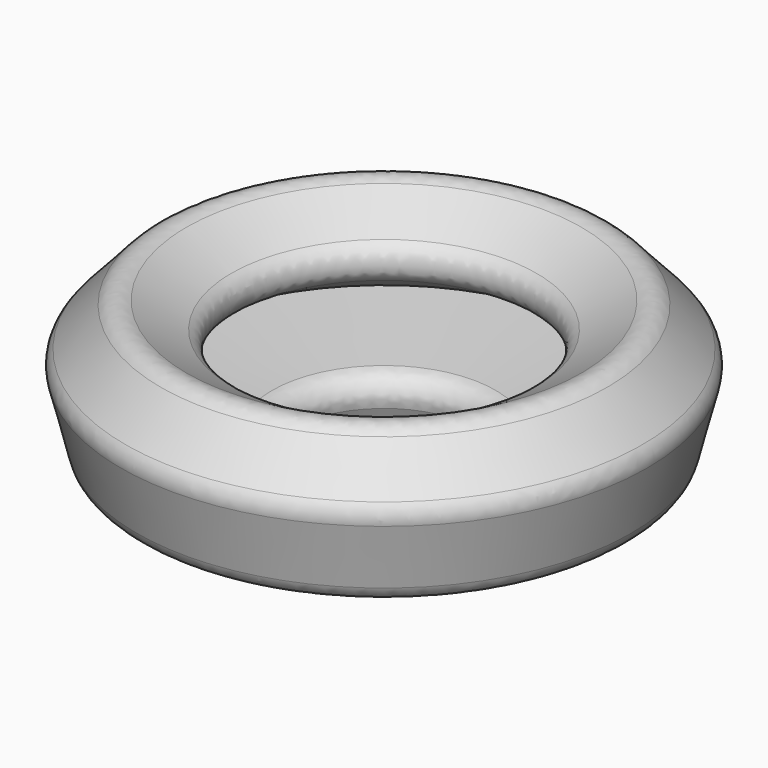
from build123d import *

# Parameters (mm, degrees)
F3_R = 5.08
F4_R = 5.08
F5_R = 5.08
F6_R = 5.08
F7_R = 5.08
F8_R = 5.08


with BuildPart() as f2:
    # F0 (on Front) → F2 (revolve)
    with BuildSketch(Plane.XZ):
        Polygon((-51.884659, -5.787526), (-65.084279, -20.408642), (-59.804432, -41.121893), (-26.703846, -51.275443), (-20.408642, -36.8574), (-54.930724, -33.202119), (-29.749911, -18.581003), align=None)
    revolve(axis=Axis((0, 0, -2.335318), (0, 0, -1)))

    # F3
    f3_edges = [f2.edges().sort_by_distance(p)[0] for p in [
        (51.884659, 0, -5.787526),
    ]]
    fillet(f3_edges, radius=F3_R)

    # F4
    f4_edges = [f2.edges().sort_by_distance(p)[0] for p in [
        (65.084279, 0, -20.408642),
    ]]
    fillet(f4_edges, radius=F4_R)

    # F5
    f5_edges = [f2.edges().sort_by_distance(p)[0] for p in [
        (59.804432, 0, -41.121893),
    ]]
    fillet(f5_edges, radius=F5_R)

    # F6
    f6_edges = [f2.edges().sort_by_distance(p)[0] for p in [
        (26.703846, 0, -51.275443),
    ]]
    fillet(f6_edges, radius=F6_R)

    # F7
    f7_edges = [f2.edges().sort_by_distance(p)[0] for p in [
        (29.749911, 0, -18.581003),
    ]]
    fillet(f7_edges, radius=F7_R)

    # F8
    f8_edges = [f2.edges().sort_by_distance(p)[0] for p in [
        (20.408642, 0, -36.8574),
    ]]
    fillet(f8_edges, radius=F8_R)


solid = f2.part
